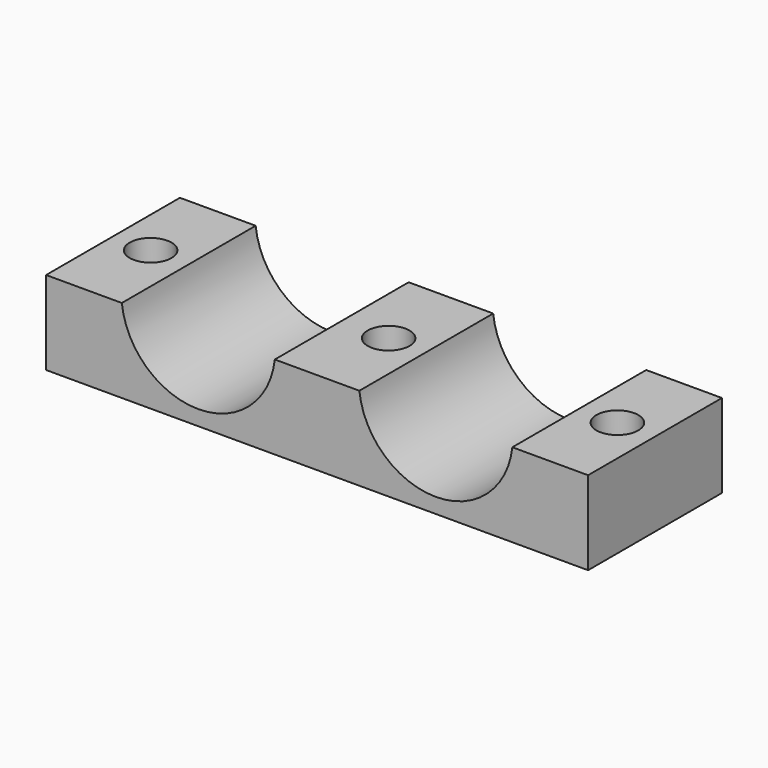
from build123d import *

# Parameters (mm, degrees)
F1_DEPTH = 10
F3_R     = 1.25
F4_DEPTH = 5.001


with BuildPart() as f1:
    # F0 (on Front) → F1 (new body)
    with BuildSketch(Plane.XZ):
        with BuildLine():
            Line((4.527255, 5), (0, 5))
            Line((0, 5), (0, 0))
            Line((0, 0), (16.2, 0))
            Line((16.2, 0), (16.2, 5))
            Line((16.2, 5), (13.672745, 5))
            ThreePointArc((13.672745, 5), (9.1, 0.9), (4.527255, 5))
        make_face()
    extrude(amount=F1_DEPTH)

    # F2: F1 across face


with BuildPart() as f1_1:
    add(f1.part)
    add(f1.part.mirror(Plane(origin=(16.2, -5, 2.5), x_dir=(0, 1, 0), z_dir=(1, 0, 0))))

    # F3 (on face) → F4 (cut, through all)
    with BuildSketch(Plane.XY.offset(5)):
        with Locations((2.25, -5)):
            Circle(F3_R)
        with Locations((16.477255, -5)):
            Circle(F3_R)
        with Locations((30.15, -5)):
            Circle(F3_R)
    extrude(amount=-F4_DEPTH, mode=Mode.SUBTRACT)


solid = f1_1.part
